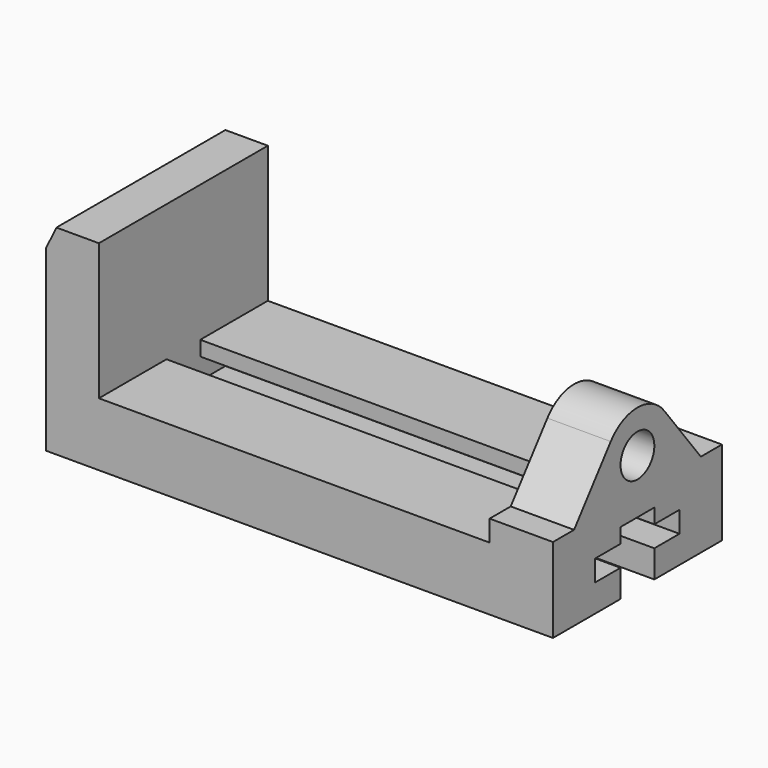
from build123d import *

# Parameters (mm, degrees)
F0_W     = 38.1
F0_H     = 41.149566
F1_DEPTH = 127
F3_DEPTH = 273.05
F2_R     = 12.7
F4_DEPTH = 254


with BuildPart() as f1:
    # F0 (on Front) → F1 (new body)
    with BuildSketch(Plane.XZ):
        Polygon((6.213259, 120.18176), (0, 107.315989), (0, 0), (304.8, 0), (304.8, 60.450434), (266.7, 60.450434), (266.7, 38.1), (31.75, 38.1), (31.75, 120.18176), align=None)
        with Locations((285.75, 81.025217)):
            Rectangle(F0_W, F0_H)
    extrude(amount=F1_DEPTH)

    # F2 (on face) → F3 (cut)
    with BuildSketch(Plane.YZ.offset(304.8)):
        Polygon((-76.2, 16.51), (-76.2, 0), (-50.8, 0), (-50.8, 16.51), (-31.905102, 16.51), (-31.905102, 29.21), (-50.8, 29.21), (-50.8, 38.1), (-76.2, 38.1), (-76.2, 29.21), (-95.405102, 29.21), (-95.405102, 16.51), align=None)
    extrude(amount=-F3_DEPTH, mode=Mode.SUBTRACT)

    # F2 (on face) → F4 (cut)
    with BuildSketch(Plane.YZ.offset(304.8)):
        with Locations((-63.5, 70.793197)):
            Circle(F2_R)
        with BuildLine():
            Line((-127, 101.6), (-127, 50.8))
            Line((-127, 50.8), (-111.125, 50.8))
            Line((-111.125, 50.8), (-83.577839, 86.350843))
            ThreePointArc((-83.577839, 86.350843), (-63.5, 96.193197), (-43.422161, 86.350843))
            Line((-43.422161, 86.350843), (-15.875, 50.8))
            Line((-15.875, 50.8), (0, 50.8))
            Line((0, 50.8), (0, 101.6))
            Line((0, 101.6), (-127, 101.6))
        make_face()
    extrude(amount=-F4_DEPTH, mode=Mode.SUBTRACT)


solid = f1.part
